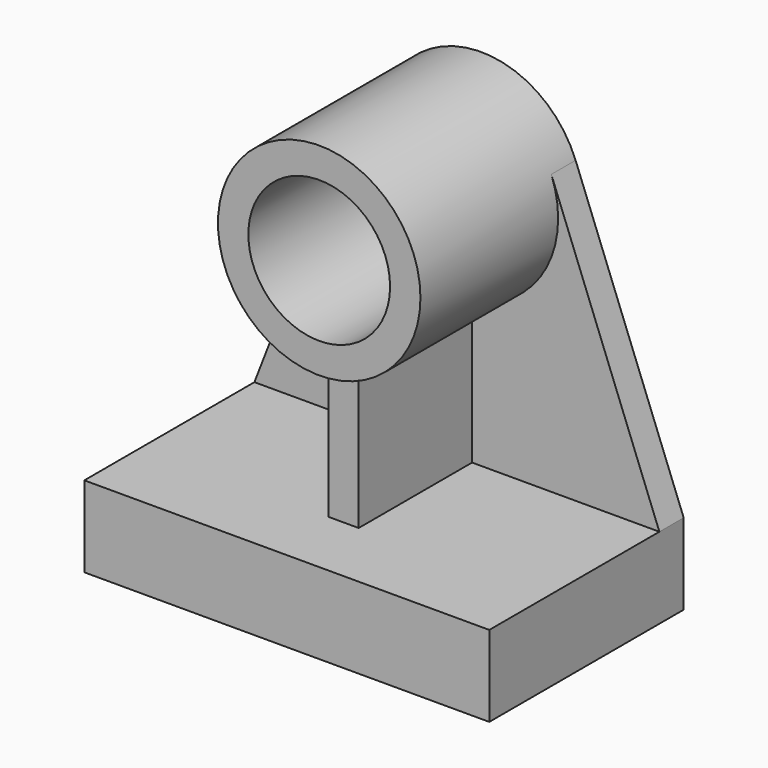
from build123d import *

# Parameters (mm, degrees)
F0_R     = 63.5
F0_R_2   = 44.45
F1_DEPTH = 127
F3_DEPTH = 19.05
F4_W     = 254
F4_H     = 50.8
F5_DEPTH = 152.4
F7_DEPTH = 88.9


with BuildPart() as f1:
    # F0 (on Front) → F1 (new body)
    with BuildSketch(Plane.XZ):
        Circle(F0_R)
        Circle(F0_R_2, mode=Mode.SUBTRACT)
    extrude(amount=F1_DEPTH)


with BuildPart() as f3:
    # F2 (on Front) → F3 (new body)
    with BuildSketch(Plane.XZ):
        with BuildLine():
            ThreePointArc((59.227747, 22.898122), (0, -63.5), (-59.227747, 22.898122))
            Line((-59.227747, 22.898122), (-127, -152.4))
            Line((-127, -152.4), (127, -152.4))
            Line((127, -152.4), (59.227747, 22.898122))
        make_face()
    extrude(amount=F3_DEPTH)

    # F4 (on Front) → F5 (join)
    with BuildSketch(Plane.XZ):
        with Locations((0, -177.8)):
            Rectangle(F4_W, F4_H)
    extrude(amount=F5_DEPTH)


with BuildPart() as f7:
    # F6 (on face) → F7 (new body)
    with BuildSketch(Plane.XZ.offset(19.05)):
        with BuildLine():
            Line((-9.525, -62.781561), (-9.525, -152.4))
            Line((-9.525, -152.4), (9.525, -152.4))
            Line((9.525, -152.4), (9.525, -62.781561))
            ThreePointArc((9.525, -62.781561), (0, -63.5), (-9.525, -62.781561))
        make_face()
    extrude(amount=F7_DEPTH)


solid = Compound([f1.part, f3.part, f7.part])
